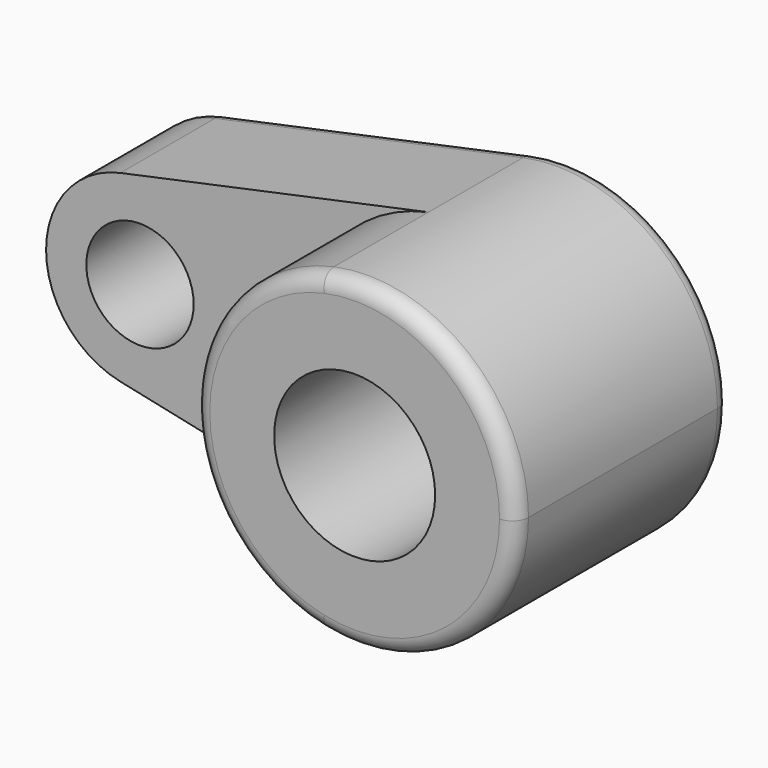
from build123d import *

# Parameters (mm, degrees)
F0_R     = 15
F0_R_2   = 10
F1_DEPTH = 25
F2_DEPTH = 50
F3_R     = 3


with BuildPart() as f1:
    # F0 (on Front) → F1 (new body)
    with BuildSketch(Plane.XZ):
        with BuildLine():
            ThreePointArc((-6.25, -29.341736), (18.874586, -23.318448), (30, 0))
            ThreePointArc((30, 0), (18.874586, 23.318448), (-6.25, 29.341736))
            ThreePointArc((-6.25, 29.341736), (-30, 0), (-6.25, -29.341736))
        make_face()
        Circle(F0_R, mode=Mode.SUBTRACT)
        with BuildLine():
            ThreePointArc((-6.25, -29.341736), (-30, 0), (-6.25, 29.341736))
            Line((-6.25, 29.341736), (-63.645833, 17.116013))
            ThreePointArc((-63.645833, 17.116013), (-48.989825, 13.602428), (-42.5, 0))
            ThreePointArc((-42.5, 0), (-48.989825, -13.602428), (-63.645833, -17.116013))
            Line((-63.645833, -17.116013), (-6.25, -29.341736))
        make_face()
        with BuildLine():
            ThreePointArc((-42.5, 0), (-48.989825, 13.602428), (-63.645833, 17.116013))
            ThreePointArc((-63.645833, 17.116013), (-77.5, 0), (-63.645833, -17.116013))
            ThreePointArc((-63.645833, -17.116013), (-48.989825, -13.602428), (-42.5, 0))
        make_face()
        with Locations((-60, 0)):
            Circle(F0_R_2, mode=Mode.SUBTRACT)
    extrude(amount=F1_DEPTH)

    # F0 (on Front) → F2 (join)
    with BuildSketch(Plane.XZ):
        with BuildLine():
            ThreePointArc((-6.25, -29.341736), (18.874586, -23.318448), (30, 0))
            ThreePointArc((30, 0), (18.874586, 23.318448), (-6.25, 29.341736))
            ThreePointArc((-6.25, 29.341736), (-30, 0), (-6.25, -29.341736))
        make_face()
        Circle(F0_R, mode=Mode.SUBTRACT)
    extrude(amount=F2_DEPTH)

    # F3
    f3_edges = [f1.edges().sort_by_distance(p)[0] for p in [
        (6.25, -50, -29.341736),
        (30, 0, 0),
        (-34.947917, 0, -23.228875),
        (-77.5, 0, 0),
        (-34.947917, 0, 23.228875),
    ]]
    fillet(f3_edges, radius=F3_R)


solid = f1.part
